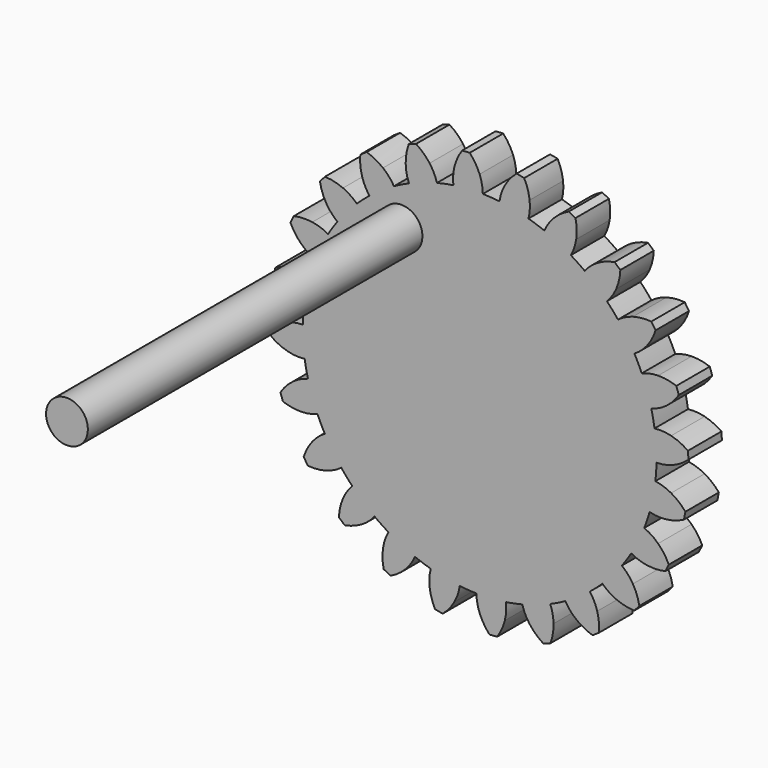
from build123d import *

# Parameters (mm, degrees)
F1_DEPTH = 12.7
F2_COUNT = 24
F3_R     = 6.35
F4_DEPTH = 127


with BuildPart() as f1:
    # F0 (on Front) → F1 (new body)
    with BuildSketch(Plane.XZ):
        with BuildLine():
            ThreePointArc((-7.9757188017, 53.1256411782), (-35.0534039093, -40.7087793402), (53.721, 0))
            ThreePointArc((53.721, 0), (38.329016413, 37.6408334368), (0.9731977694, 53.7121841587))
            ThreePointArc((0.9731977694, 53.7121841587), (-3.5135215054, 53.6059792153), (-7.9757188017, 53.1256411782))
        make_face()
        with BuildLine():
            ThreePointArc((-7.9757188017, 53.1256411782), (-3.5135215054, 53.6059792153), (0.9731977694, 53.7121841587))
            ThreePointArc((0.9731977694, 53.7121841587), (0.7150391259, 56.2378977594), (0, 58.674))
            ThreePointArc((0, 58.674), (-1.2754273137, 61.1895773196), (-2.9892332778, 63.4296025875))
            Line((-2.9892332778, 63.4296025875), (-5.315564527, 63.2771267818))
            ThreePointArc((-5.315564527, 63.2771267818), (-6.7223266748, 60.8325686739), (-7.6584938023, 58.1720357962))
            ThreePointArc((-7.6584938023, 58.1720357962), (-8.0494405201, 55.6634434137), (-7.9757188017, 53.1256411782))
        make_face()
    extrude(amount=F1_DEPTH)


with BuildPart() as f2_1:
    # F2: instance of F1
    add(f1.part.rotate(Axis((0, 0, 0), (0, 1, 0)), 1 * 360 / F2_COUNT))


with BuildPart() as f2_2:
    # F2: instance of F1
    add(f1.part.rotate(Axis((0, 0, 0), (0, 1, 0)), 2 * 360 / F2_COUNT))


with BuildPart() as f2_3:
    # F2: instance of F1
    add(f1.part.rotate(Axis((0, 0, 0), (0, 1, 0)), 3 * 360 / F2_COUNT))


with BuildPart() as f2_4:
    # F2: instance of F1
    add(f1.part.rotate(Axis((0, 0, 0), (0, 1, 0)), 4 * 360 / F2_COUNT))


with BuildPart() as f2_5:
    # F2: instance of F1
    add(f1.part.rotate(Axis((0, 0, 0), (0, 1, 0)), 5 * 360 / F2_COUNT))


with BuildPart() as f2_6:
    # F2: instance of F1
    add(f1.part.rotate(Axis((0, 0, 0), (0, 1, 0)), 6 * 360 / F2_COUNT))


with BuildPart() as f2_7:
    # F2: instance of F1
    add(f1.part.rotate(Axis((0, 0, 0), (0, 1, 0)), 7 * 360 / F2_COUNT))


with BuildPart() as f2_8:
    # F2: instance of F1
    add(f1.part.rotate(Axis((0, 0, 0), (0, 1, 0)), 8 * 360 / F2_COUNT))


with BuildPart() as f2_9:
    # F2: instance of F1
    add(f1.part.rotate(Axis((0, 0, 0), (0, 1, 0)), 9 * 360 / F2_COUNT))


with BuildPart() as f2_10:
    # F2: instance of F1
    add(f1.part.rotate(Axis((0, 0, 0), (0, 1, 0)), 10 * 360 / F2_COUNT))


with BuildPart() as f2_11:
    # F2: instance of F1
    add(f1.part.rotate(Axis((0, 0, 0), (0, 1, 0)), 11 * 360 / F2_COUNT))


with BuildPart() as f2_12:
    # F2: instance of F1
    add(f1.part.rotate(Axis((0, 0, 0), (0, 1, 0)), 12 * 360 / F2_COUNT))


with BuildPart() as f2_13:
    # F2: instance of F1
    add(f1.part.rotate(Axis((0, 0, 0), (0, 1, 0)), 13 * 360 / F2_COUNT))


with BuildPart() as f2_14:
    # F2: instance of F1
    add(f1.part.rotate(Axis((0, 0, 0), (0, 1, 0)), 14 * 360 / F2_COUNT))


with BuildPart() as f2_15:
    # F2: instance of F1
    add(f1.part.rotate(Axis((0, 0, 0), (0, 1, 0)), 15 * 360 / F2_COUNT))


with BuildPart() as f2_16:
    # F2: instance of F1
    add(f1.part.rotate(Axis((0, 0, 0), (0, 1, 0)), 16 * 360 / F2_COUNT))


with BuildPart() as f2_17:
    # F2: instance of F1
    add(f1.part.rotate(Axis((0, 0, 0), (0, 1, 0)), 17 * 360 / F2_COUNT))


with BuildPart() as f2_18:
    # F2: instance of F1
    add(f1.part.rotate(Axis((0, 0, 0), (0, 1, 0)), 18 * 360 / F2_COUNT))


with BuildPart() as f2_19:
    # F2: instance of F1
    add(f1.part.rotate(Axis((0, 0, 0), (0, 1, 0)), 19 * 360 / F2_COUNT))


with BuildPart() as f2_20:
    # F2: instance of F1
    add(f1.part.rotate(Axis((0, 0, 0), (0, 1, 0)), 20 * 360 / F2_COUNT))


with BuildPart() as f2_21:
    # F2: instance of F1
    add(f1.part.rotate(Axis((0, 0, 0), (0, 1, 0)), 21 * 360 / F2_COUNT))


with BuildPart() as f2_22:
    # F2: instance of F1
    add(f1.part.rotate(Axis((0, 0, 0), (0, 1, 0)), 22 * 360 / F2_COUNT))


with BuildPart() as f2_23:
    # F2: instance of F1
    add(f1.part.rotate(Axis((0, 0, 0), (0, 1, 0)), 23 * 360 / F2_COUNT))


with BuildPart() as f1_1:
    add(f1.part)

    add(f2_1.part)  # F4 merges F2_1

    add(f2_2.part)  # F4 merges F2_2

    add(f2_3.part)  # F4 merges F2_3

    add(f2_4.part)  # F4 merges F2_4

    add(f2_5.part)  # F4 merges F2_5

    add(f2_6.part)  # F4 merges F2_6

    add(f2_7.part)  # F4 merges F2_7

    add(f2_8.part)  # F4 merges F2_8

    add(f2_9.part)  # F4 merges F2_9

    add(f2_10.part)  # F4 merges F2_10

    add(f2_11.part)  # F4 merges F2_11

    add(f2_12.part)  # F4 merges F2_12

    add(f2_13.part)  # F4 merges F2_13

    add(f2_14.part)  # F4 merges F2_14

    add(f2_15.part)  # F4 merges F2_15

    add(f2_16.part)  # F4 merges F2_16

    add(f2_17.part)  # F4 merges F2_17

    add(f2_18.part)  # F4 merges F2_18

    add(f2_19.part)  # F4 merges F2_19

    add(f2_20.part)  # F4 merges F2_20

    add(f2_21.part)  # F4 merges F2_21

    add(f2_22.part)  # F4 merges F2_22

    add(f2_23.part)  # F4 merges F2_23
    # F3 (on face) → F4 (join)
    with BuildSketch(Plane.XZ.offset(12.7)):
        with Locations((-23.7306803465, 36.4389158785)):
            Circle(F3_R)
    extrude(amount=F4_DEPTH)


solid = f1_1.part
